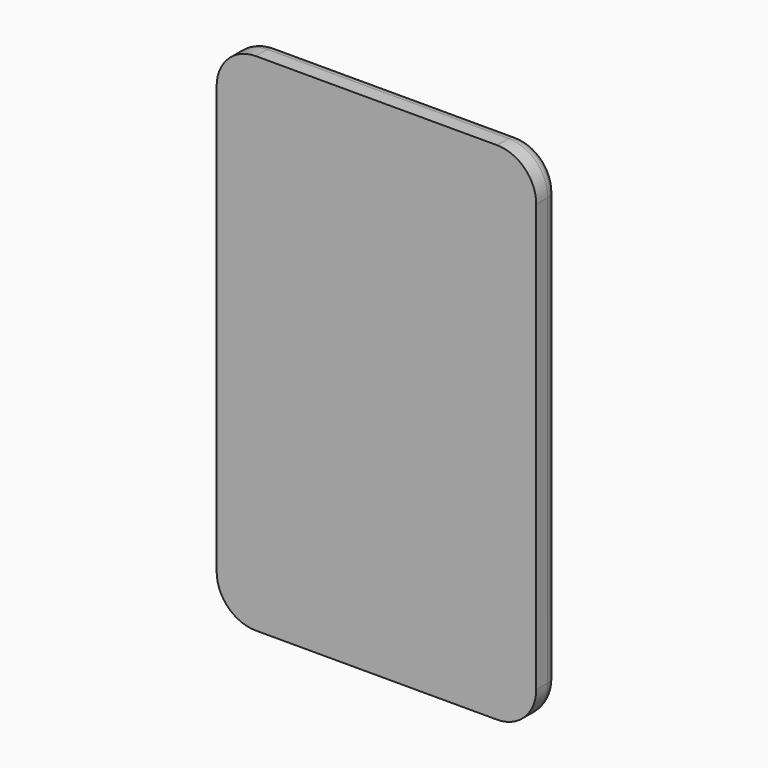
from build123d import *

# Parameters (mm, degrees)
F0_W     = 122.4
F0_H     = 193.7
F1_DEPTH = 10.5
F2_R     = 15
F3_R     = 5


with BuildPart() as f1:
    # F0 (on Front) → F1 (new body)
    with BuildSketch(Plane.XZ):
        Rectangle(F0_W, F0_H)
    extrude(amount=F1_DEPTH)

    # F2
    f2_edges = [f1.edges().sort_by_distance(p)[0] for p in [
        (61.2, -5.25, 96.85),
        (61.2, -5.25, -96.85),
        (-61.2, -5.25, 96.85),
        (-61.2, -5.25, -96.85),
    ]]
    fillet(f2_edges, radius=F2_R)

    # F3
    f3_edges = [f1.edges().sort_by_distance(p)[0] for p in [
        (61.2, 0, 0),
    ]]
    fillet(f3_edges, radius=F3_R)


solid = f1.part
